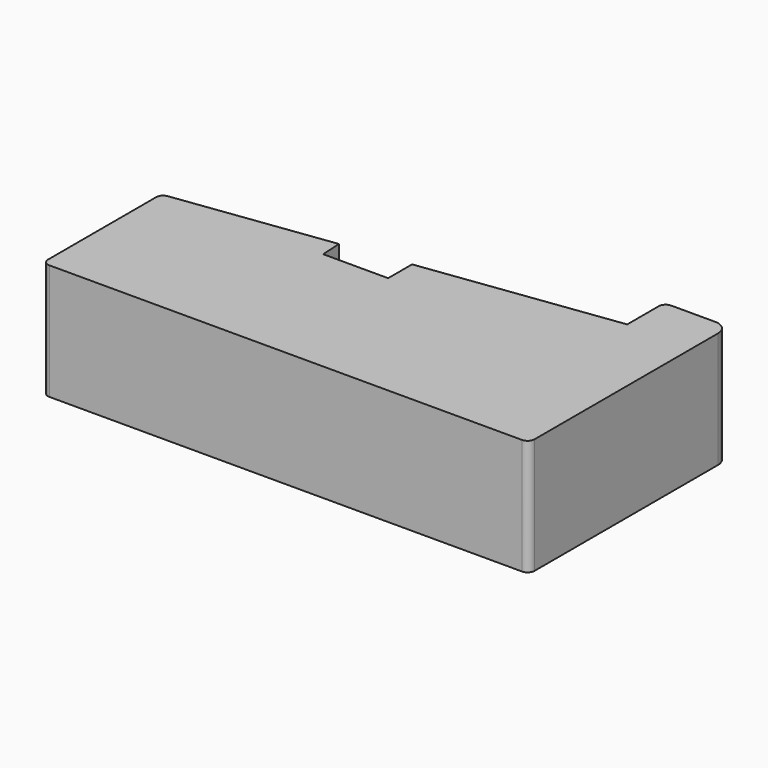
from build123d import *

# Parameters (mm, degrees)
F1_DEPTH = 25


with BuildPart() as f1:
    # F0 (on Top) → F1 (new body)
    with BuildSketch(Plane.XY):
        with BuildLine():
            ThreePointArc((-57.731671, -40.717392), (-57.292331, -41.778052), (-56.231671, -42.217392))
            Line((-56.231671, -42.217392), (-22.731671, -42.217392))
            Line((-22.731671, -42.217392), (-8.731671, -42.217392))
            Line((-8.731671, -42.217392), (45.768329, -42.217392))
            ThreePointArc((45.768329, -42.217392), (46.828989, -41.778052), (47.268329, -40.717392))
            Line((47.268329, -40.717392), (47.268329, 8.782608))
            ThreePointArc((47.268329, 8.782608), (46.38965, 10.903928), (44.268329, 11.782608))
            Line((44.268329, 11.782608), (34.768329, 11.782608))
            ThreePointArc((34.768329, 11.782608), (33.707669, 11.343268), (33.268329, 10.282608))
            Line((33.268329, 10.282608), (33.268329, 1.782608))
            Line((33.268329, 1.782608), (-8.731671, -3.755854))
            Line((-8.731671, -3.755854), (-8.731671, -10.217392))
            Line((-8.731671, -10.217392), (-22.731671, -10.217392))
            Line((-22.731671, -10.217392), (-23.03207, -5.641621))
            Line((-23.03207, -5.641621), (-56.427775, -10.04545))
            ThreePointArc((-56.427775, -10.04545), (-57.359535, -10.543677), (-57.731671, -11.532576))
            Line((-57.731671, -11.532576), (-57.731671, -40.717392))
        make_face()
    extrude(amount=F1_DEPTH)


solid = f1.part
